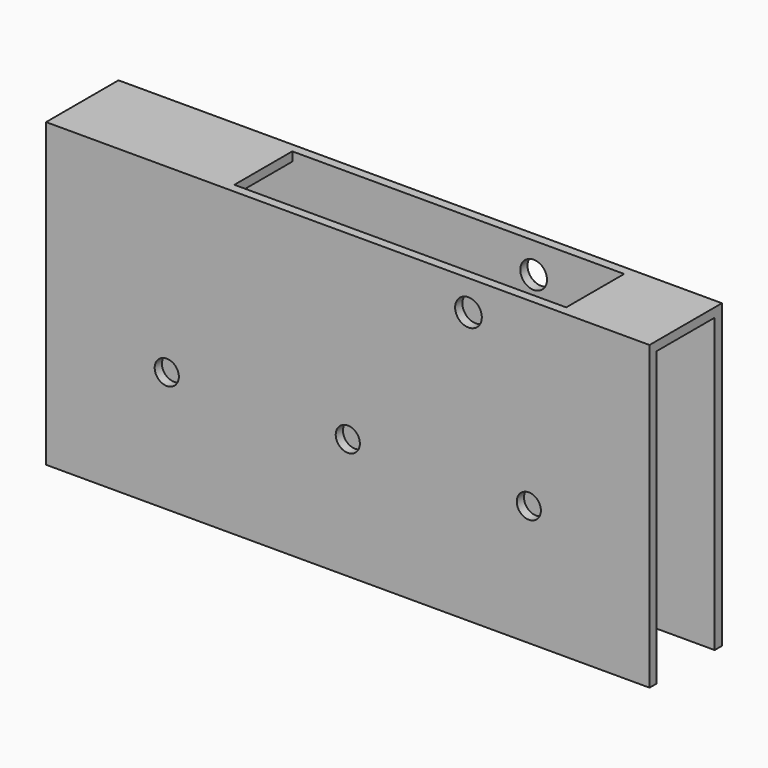
from build123d import *

# Parameters (mm, degrees)
F0_W     = 100
F0_H     = 50
F0_R     = 2
F0_R_2   = 2.212138
F1_DEPTH = 15
F2_W     = 12
F2_H     = 48.5
F3_DEPTH = 100.001
F4_W     = 55
F4_H     = 12
F5_DEPTH = 25


with BuildPart() as f1:
    # F0 (on Front) → F1 (new body)
    with BuildSketch(Plane.XZ):
        with Locations((0, 5)):
            Rectangle(F0_W, F0_H)
        with Locations((-30, 0)):
            Circle(F0_R, mode=Mode.SUBTRACT)
        Circle(F0_R, mode=Mode.SUBTRACT)
        with Locations((30, 0)):
            Circle(F0_R, mode=Mode.SUBTRACT)
        with Locations((20, 25)):
            Circle(F0_R_2, mode=Mode.SUBTRACT)
    extrude(amount=F1_DEPTH)

    # F2 (on face) → F3 (cut, through all)
    with BuildSketch(Plane(origin=(-50, 0, 0), x_dir=(0, -1, 0), z_dir=(-1, 0, 0))):
        with Locations((7.5, 4.25)):
            Rectangle(F2_W, F2_H)
    extrude(amount=-F3_DEPTH, mode=Mode.SUBTRACT)

    # F4 (on face) → F5 (cut)
    with BuildSketch(Plane.XY.offset(30)):
        with Locations((7.5, -7.5)):
            Rectangle(F4_W, F4_H)
    extrude(amount=-F5_DEPTH, mode=Mode.SUBTRACT)


solid = f1.part
